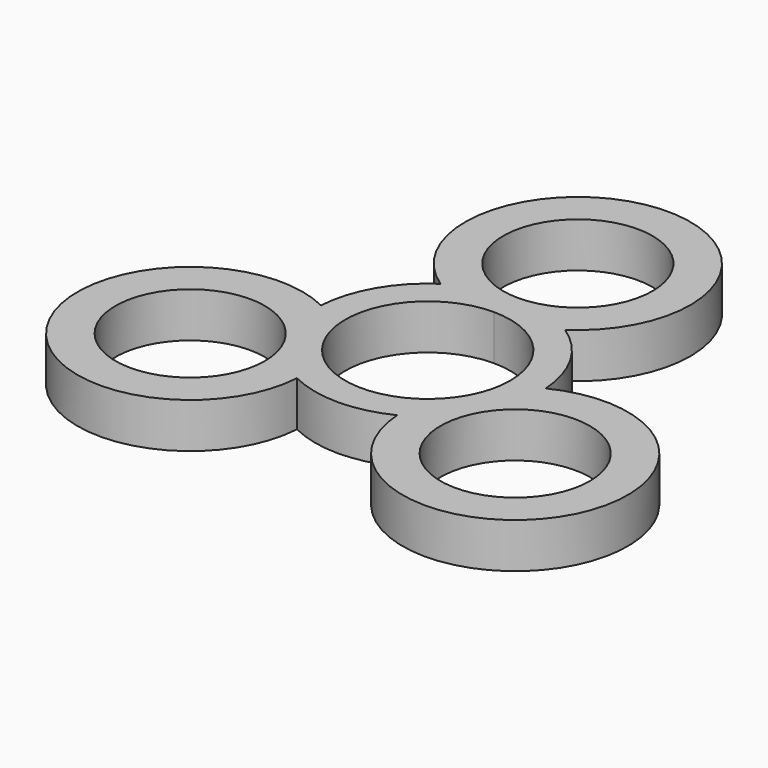
from build123d import *

# Parameters (mm, degrees)
F0_R     = 9.95
F1_DEPTH = 6


with BuildPart() as f1:
    # F0 (on Top) → F1 (new body)
    with BuildSketch(Plane.XY):
        with BuildLine():
            ThreePointArc((0, 11), (-7.778175, -7.778175), (11, 0))
            ThreePointArc((11, 0), (7.778175, 7.778175), (0, 11))
        make_face()
        with BuildLine():
            ThreePointArc((9.95, 25), (-7.035712, 32.035712), (0, 15.05))
            ThreePointArc((0, 15.05), (7.035712, 17.964288), (9.95, 25))
        make_face()
        with BuildLine():
            ThreePointArc((8.291562, 12.5), (0, 40), (-8.291562, 12.5))
            ThreePointArc((-8.291562, 12.5), (-12.990381, 7.5), (-14.971099, 0.930703))
            ThreePointArc((-14.971099, 0.930703), (-34.641016, -20), (-6.679537, -13.430703))
            ThreePointArc((-6.679537, -13.430703), (0, -15), (6.679537, -13.430703))
            ThreePointArc((6.679537, -13.430703), (34.641016, -20), (14.971099, 0.930703))
            ThreePointArc((14.971099, 0.930703), (12.990381, 7.5), (8.291562, 12.5))
        make_face()
        with Locations((-21.650635, -12.5)):
            Circle(F0_R, mode=Mode.SUBTRACT)
        with Locations((21.650635, -12.5)):
            Circle(F0_R, mode=Mode.SUBTRACT)
        with BuildLine():
            ThreePointArc((0, 11), (7.778175, 7.778175), (11, 0))
            ThreePointArc((11, 0), (-7.778175, -7.778175), (0, 11))
        make_face(mode=Mode.SUBTRACT)
        with BuildLine():
            ThreePointArc((9.95, 25), (7.035712, 17.964288), (0, 15.05))
            ThreePointArc((0, 15.05), (-7.035712, 32.035712), (9.95, 25))
        make_face(mode=Mode.SUBTRACT)
    extrude(amount=F1_DEPTH)


solid = f1.part
